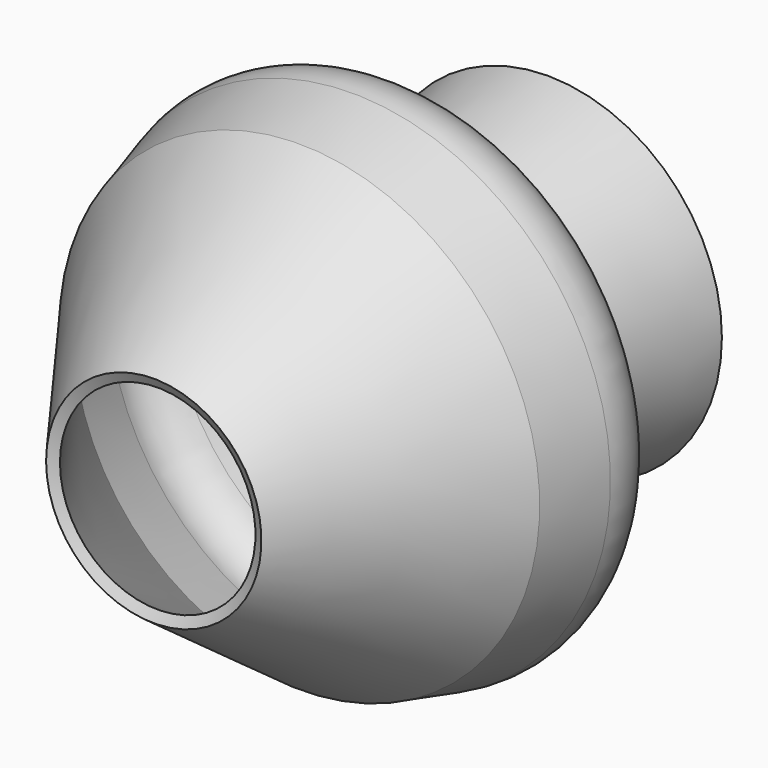
from build123d import *

# Parameters (mm, degrees)
F2_T = -1


with BuildPart() as f1:
    # F0 (on Top) → F1 (revolve)
    with BuildSketch(Plane.XY):
        with BuildLine():
            Line((-29.549587518, 46.218585223), (-38.2629260421, 46.218585223))
            Line((-38.2629260421, 46.218585223), (-45.4609021544, 40.1571318507))
            Line((-45.4609021544, 40.1571318507), (-42.430177331, 28.0342232436))
            Line((-42.430177331, 28.0342232436), (-50.7287420829, 23.4833973694))
            ThreePointArc((-50.7287420829, 23.4833973694), (-52.9238285613, 21.0606878183), (-53.1526574452, 17.7994666422))
            Line((-53.1526574452, 17.7994666422), (-51.5223555267, 11.7440661415))
            Line((-51.5223555267, 11.7440661415), (-39.3994487822, -4.9249315634))
            Line((-39.3994487822, -4.9249315634), (-29.549587518, 0))
            Line((-29.549587518, 0), (-29.549587518, 46.218585223))
        make_face()
    revolve(axis=Axis((-29.549587518, 23.1092926115, 0), (0, -1, 0)))

    # F2
    f2_openings = [f1.faces().sort_by_distance(p)[0] for p in [
        (-24.624657, -2.462466, 0),
    ]]
    offset(amount=F2_T, openings=f2_openings, kind=Kind.INTERSECTION)


solid = f1.part
